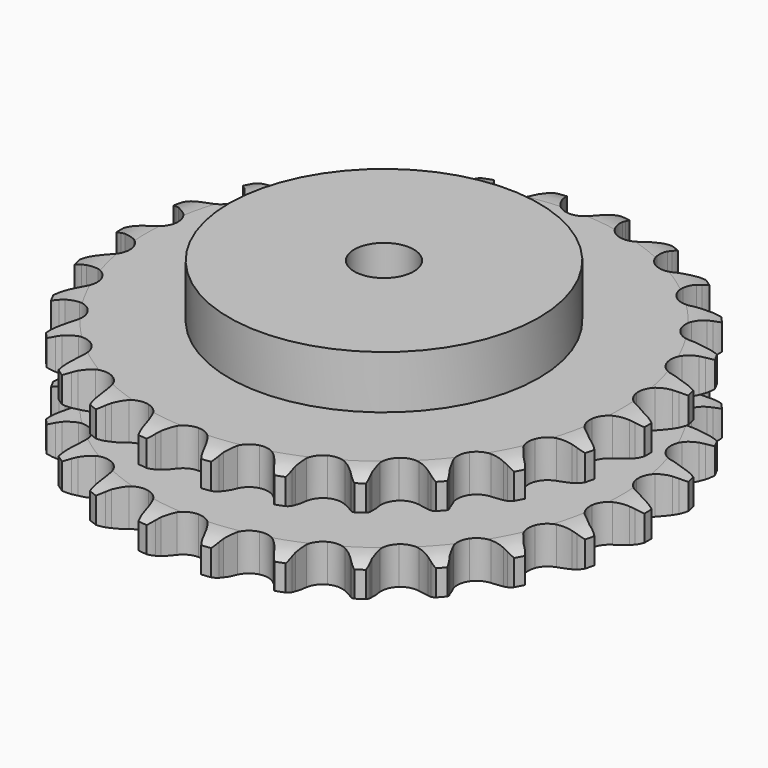
from build123d import *

# Parameters (mm, degrees)
PAD_DEPTH         = 47.7
SKETCH001_R       = 65
PAD001_DEPTH      = 70
SKETCH002_R       = 12.5
POCKET_DEPTH      = 0.0010001
POCKET_DEPTH_BACK = 70.001


with BuildPart() as part:
    # Sprocket → Pad (new body)
    with BuildSketch(Plane.XY):
        with BuildLine():
            ThreePointArc((-13.6763768577, 112.6350969959), (-11.4916020073, 110.272344241), (-9.9530909327, 107.4458932152))
            Line((-9.9530909327, 107.4458932152), (-9.1803590569, 105.4803307416))
            ThreePointArc((-9.1803590569, 105.4803307416), (-7.9511876741, 102.8943903602), (-6.3772949081, 100.5025685639))
            ThreePointArc((-6.3772949081, 100.5025685639), (-3.5582451158, 98.1771336577), (0, 97.3443185941))
            ThreePointArc((0, 97.3443185941), (3.5582451158, 98.1771336577), (6.3772949081, 100.5025685639))
            ThreePointArc((6.3772949081, 100.5025685639), (7.9511876741, 102.8943903602), (9.1803590569, 105.4803307416))
            Line((9.1803590569, 105.4803307416), (9.9530909327, 107.4458932152))
            ThreePointArc((9.9530909327, 107.4458932152), (11.4916020073, 110.272344241), (13.6763768577, 112.6350969959))
            ThreePointArc((13.6763768577, 112.6350969959), (15.2322223765, 109.8181506973), (16.0496131106, 106.7056414016))
            Line((16.0496131106, 106.7056414016), (16.3295009133, 104.6122677591))
            ThreePointArc((16.3295009133, 104.6122677591), (16.9040987695, 101.8073101394), (17.8598566502, 99.1083331447))
            ThreePointArc((17.8598566502, 99.1083331447), (20.0404769796, 96.1758283769), (23.296020269, 94.5156696119))
            ThreePointArc((23.296020269, 94.5156696119), (26.9501749387, 94.4727407897), (30.2438212668, 96.0559600102))
            Line((30.2438212668, 96.0559600102), (34.1566899281, 100.2182603068))
            ThreePointArc((34.1566899281, 100.2182603068), (34.7450514287, 101.0955819635), (35.3773575089, 101.9417802651))
            ThreePointArc((35.3773575089, 101.9417802651), (37.5475762526, 104.3179099611), (40.2343092616, 106.0891545704))
            ThreePointArc((40.2343092616, 106.0891545704), (41.0708053626, 102.9817254078), (41.1195719779, 99.764045569))
            Line((41.1195719779, 99.764045569), (40.8903496458, 97.6645200245))
            ThreePointArc((40.8903496458, 97.6645200245), (40.7769804366, 94.8035591078), (41.0590582579, 91.9542816473))
            ThreePointArc((41.0590582579, 91.9542816473), (42.474519397, 88.5851335357), (45.2381605175, 86.1941134622))
            ThreePointArc((45.2381605175, 86.1941134622), (48.7758585541, 85.2779356215), (52.3526866653, 86.0269282098))
            Line((52.3526866653, 86.0269282098), (57.1479581351, 89.1318688616))
            ThreePointArc((57.1479581351, 89.1318688616), (57.9291797349, 89.8428930221), (58.7456206582, 90.5131815893))
            ThreePointArc((58.7456206582, 90.5131815893), (61.4214218461, 92.3008979344), (64.4539698571, 93.3776960996))
            ThreePointArc((64.4539698571, 93.3776960996), (64.5225024274, 90.1603765609), (63.7998107853, 87.0245260354))
            Line((63.7998107853, 87.0245260354), (63.0747998873, 85.0408653822))
            ThreePointArc((63.0747998873, 85.0408653822), (62.280052219, 82.2901698178), (61.8720566432, 79.4561815407))
            ThreePointArc((61.8720566432, 79.4561815407), (62.4400971358, 75.8461927273), (64.5512233108, 72.8632687411))
            ThreePointArc((64.5512233108, 72.8632687411), (67.7668665634, 71.1270868076), (71.4190042091, 70.9983240371))
            Line((71.4190042091, 70.9983240371), (76.8179947397, 72.8654571793))
            ThreePointArc((76.8179947397, 72.8654571793), (77.7466746789, 73.3688617038), (78.6998018666, 73.8242858015))
            ThreePointArc((78.6998018666, 73.8242858015), (81.7256776597, 74.9196932199), (84.9278000051, 75.2394653457))
            ThreePointArc((84.9278000051, 75.2394653457), (84.2243861808, 72.099234348), (82.7722364928, 69.22745737))
            Line((82.7722364928, 69.22745737), (81.5935720269, 67.4749447548))
            ThreePointArc((81.5935720269, 67.4749447548), (80.1636337451, 64.9943749705), (79.0892759922, 62.3403769745))
            ThreePointArc((79.0892759922, 62.3403769745), (78.7768833895, 58.6993468873), (80.1128036394, 55.2978756879))
            ThreePointArc((80.1128036394, 55.2978756879), (82.8195106105, 52.8425902449), (86.3347088258, 51.8435553397))
            Line((86.3347088258, 51.8435553397), (92.023648712, 52.3643699809))
            ThreePointArc((92.023648712, 52.3643699809), (93.0458154882, 52.6308988282), (94.0802366525, 52.8449908633))
            ThreePointArc((94.0802366525, 52.8449908633), (97.2803341484, 53.1844282574), (100.4659351168, 52.7285903502))
            ThreePointArc((100.4659351168, 52.7285903502), (99.0314547526, 49.8479467048), (96.9342406802, 47.4071405137))
            Line((96.9342406802, 47.4071405137), (95.3704223408, 45.9876255998))
            ThreePointArc((95.3704223408, 45.9876255998), (93.388396261, 43.9213432949), (91.7101140984, 41.6015762965))
            ThreePointArc((91.7101140984, 41.6015762965), (90.5354435229, 38.1411083696), (91.0185190186, 34.5187710993))
            ThreePointArc((91.0185190186, 34.5187710993), (93.0589857376, 31.4870744121), (96.2329539794, 29.6758276497))
            Line((96.2329539794, 29.6758276497), (101.8812227136, 28.8200559359))
            ThreePointArc((101.8812227136, 28.8200559359), (102.9374717091, 28.8342194183), (103.993070052, 28.7945371398))
            ThreePointArc((103.993070052, 28.7945371398), (107.181411216, 28.3582776422), (110.1653552583, 27.1533213442))
            ThreePointArc((110.1653552583, 27.1533213442), (108.0831751388, 24.699677589), (105.4627791409, 22.8316929688))
            Line((105.4627791409, 22.8316929688), (103.6046903657, 21.8276728031))
            ThreePointArc((103.6046903657, 21.8276728031), (101.1857646392, 20.2957627946), (99.0010937258, 18.4450432198))
            ThreePointArc((99.0010937258, 18.4450432198), (97.0324127617, 15.3662472708), (96.6345689114, 11.733561005))
            ThreePointArc((96.6345689114, 11.733561005), (97.8902108693, 8.3016442654), (100.5384896403, 5.7834487239))
            Line((100.5384896403, 5.7834487239), (105.8178303743, 3.6008249966))
            ThreePointArc((105.8178303743, 3.6008249966), (106.8467762368, 3.3617999839), (107.8622042195, 3.0706495817))
            ThreePointArc((107.8622042195, 3.0706495817), (110.8534942524, 1.8840470086), (113.462365387, 0))
            ThreePointArc((113.462365387, 0), (110.8534942524, -1.8840470086), (107.8622042195, -3.0706495817))
            Line((107.8622042195, -3.0706495817), (105.8178303743, -3.6008249966))
            ThreePointArc((105.8178303743, -3.6008249966), (103.1025841718, -4.5093336672), (100.5384896403, -5.7834487239))
            ThreePointArc((100.5384896403, -5.7834487239), (97.8902108693, -8.3016442654), (96.6345689114, -11.733561005))
            ThreePointArc((96.6345689114, -11.733561005), (97.0324127617, -15.3662472708), (99.0010937258, -18.4450432198))
            Line((99.0010937258, -18.4450432198), (103.6046903657, -21.8276728031))
            ThreePointArc((103.6046903657, -21.8276728031), (104.5465345018, -22.3059950459), (105.4627791409, -22.8316929688))
            ThreePointArc((105.4627791409, -22.8316929688), (108.0831751388, -24.699677589), (110.1653552583, -27.1533213442))
            ThreePointArc((110.1653552583, -27.1533213442), (107.181411216, -28.3582776422), (103.993070052, -28.7945371398))
            Line((103.993070052, -28.7945371398), (101.8812227136, -28.8200559359))
            ThreePointArc((101.8812227136, -28.8200559359), (99.0274562751, -29.0523640471), (96.2329539794, -29.6758276497))
            ThreePointArc((96.2329539794, -29.6758276497), (93.0589857376, -31.4870744121), (91.0185190186, -34.5187710993))
            ThreePointArc((91.0185190186, -34.5187710993), (90.5354435229, -38.1411083696), (91.7101140984, -41.6015762965))
            Line((91.7101140984, -41.6015762965), (95.3704223408, -45.9876255998))
            ThreePointArc((95.3704223408, -45.9876255998), (96.1704281928, -46.6774467226), (96.9342406802, -47.4071405137))
            ThreePointArc((96.9342406802, -47.4071405137), (99.0314547526, -49.8479467048), (100.4659351168, -52.7285903502))
            ThreePointArc((100.4659351168, -52.7285903502), (97.2803341484, -53.1844282574), (94.0802366525, -52.8449908633))
            Line((94.0802366525, -52.8449908633), (92.023648712, -52.3643699809))
            ThreePointArc((92.023648712, -52.3643699809), (89.1972125697, -51.9069766296), (86.3347088258, -51.8435553397))
            ThreePointArc((86.3347088258, -51.8435553397), (82.8195106105, -52.8425902449), (80.1128036394, -55.2978756879))
            ThreePointArc((80.1128036394, -55.2978756879), (78.7768833895, -58.6993468873), (79.0892759922, -62.3403769745))
            Line((79.0892759922, -62.3403769745), (81.5935720269, -67.4749447548))
            ThreePointArc((81.5935720269, -67.4749447548), (82.2052461625, -68.3361748614), (82.7722364928, -69.22745737))
            ThreePointArc((82.7722364928, -69.22745737), (84.2243861808, -72.099234348), (84.9278000051, -75.2394653457))
            ThreePointArc((84.9278000051, -75.2394653457), (81.7256776597, -74.9196932199), (78.6998018666, -73.8242858015))
            Line((78.6998018666, -73.8242858015), (76.8179947397, -72.8654571793))
            ThreePointArc((76.8179947397, -72.8654571793), (74.1831510885, -71.7449444045), (71.4190042091, -70.9983240371))
            ThreePointArc((71.4190042091, -70.9983240371), (67.7668665634, -71.1270868076), (64.5512233108, -72.8632687411))
            ThreePointArc((64.5512233108, -72.8632687411), (62.4400971358, -75.8461927273), (61.8720566432, -79.4561815407))
            Line((61.8720566432, -79.4561815407), (63.0747998873, -85.0408653822))
            ThreePointArc((63.0747998873, -85.0408653822), (63.4625940291, -86.0234529092), (63.7998107853, -87.0245260354))
            ThreePointArc((63.7998107853, -87.0245260354), (64.5225024274, -90.1603765609), (64.4539698571, -93.3776960996))
            ThreePointArc((64.4539698571, -93.3776960996), (61.4214218461, -92.3008979344), (58.7456206582, -90.5131815893))
            Line((58.7456206582, -90.5131815893), (57.1479581351, -89.1318688616))
            ThreePointArc((57.1479581351, -89.1318688616), (54.8578345109, -87.413356793), (52.3526866653, -86.0269282098))
            ThreePointArc((52.3526866653, -86.0269282098), (48.7758585541, -85.2779356215), (45.2381605175, -86.1941134622))
            ThreePointArc((45.2381605175, -86.1941134622), (42.474519397, -88.5851335357), (41.0590582579, -91.9542816473))
            Line((41.0590582579, -91.9542816473), (40.8903496458, -97.6645200245))
            ThreePointArc((40.8903496458, -97.6645200245), (41.0317266079, -98.7113605564), (41.1195719779, -99.764045569))
            ThreePointArc((41.1195719779, -99.764045569), (41.0708053626, -102.9817254078), (40.2343092616, -106.0891545704))
            ThreePointArc((40.2343092616, -106.0891545704), (37.5475762526, -104.3179099611), (35.3773575089, -101.9417802651))
            Line((35.3773575089, -101.9417802651), (34.1566899281, -100.2182603068))
            ThreePointArc((34.1566899281, -100.2182603068), (32.3443799915, -98.0016226192), (30.2438212668, -96.0559600102))
            ThreePointArc((30.2438212668, -96.0559600102), (26.9501749387, -94.4727407897), (23.296020269, -94.5156696119))
            ThreePointArc((23.296020269, -94.5156696119), (20.0404769796, -96.1758283769), (17.8598566502, -99.1083331447))
            Line((17.8598566502, -99.1083331447), (16.3295009133, -104.6122677591))
            ThreePointArc((16.3295009133, -104.6122677591), (16.2162443805, -105.6625227293), (16.0496131106, -106.7056414016))
            ThreePointArc((16.0496131106, -106.7056414016), (15.2322223765, -109.8181506973), (13.6763768577, -112.6350969959))
            ThreePointArc((13.6763768577, -112.6350969959), (11.4916020073, -110.272344241), (9.9530909327, -107.4458932152))
            Line((9.9530909327, -107.4458932152), (9.1803590569, -105.4803307416))
            ThreePointArc((9.1803590569, -105.4803307416), (7.9511876741, -102.8943903602), (6.3772949081, -100.5025685639))
            ThreePointArc((6.3772949081, -100.5025685639), (3.5582451158, -98.1771336577), (0, -97.3443185941))
            ThreePointArc((0, -97.3443185941), (-3.5582451158, -98.1771336577), (-6.3772949081, -100.5025685639))
            Line((-6.3772949081, -100.5025685639), (-9.1803590569, -105.4803307416))
            ThreePointArc((-9.1803590569, -105.4803307416), (-9.5416670266, -106.4729631488), (-9.9530909327, -107.4458932152))
            ThreePointArc((-9.9530909327, -107.4458932152), (-11.4916020073, -110.272344241), (-13.6763768577, -112.6350969959))
            ThreePointArc((-13.6763768577, -112.6350969959), (-15.2322223765, -109.8181506973), (-16.0496131106, -106.7056414016))
            Line((-16.0496131106, -106.7056414016), (-16.3295009133, -104.6122677591))
            ThreePointArc((-16.3295009133, -104.6122677591), (-16.9040987695, -101.8073101394), (-17.8598566502, -99.1083331447))
            ThreePointArc((-17.8598566502, -99.1083331447), (-20.0404769796, -96.1758283769), (-23.296020269, -94.5156696119))
            ThreePointArc((-23.296020269, -94.5156696119), (-26.9501749387, -94.4727407897), (-30.2438212668, -96.0559600102))
            Line((-30.2438212668, -96.0559600102), (-34.1566899281, -100.2182603068))
            ThreePointArc((-34.1566899281, -100.2182603068), (-34.7450514287, -101.0955819635), (-35.3773575089, -101.9417802651))
            ThreePointArc((-35.3773575089, -101.9417802651), (-37.5475762526, -104.3179099611), (-40.2343092616, -106.0891545704))
            ThreePointArc((-40.2343092616, -106.0891545704), (-41.0708053626, -102.9817254078), (-41.1195719779, -99.764045569))
            Line((-41.1195719779, -99.764045569), (-40.8903496458, -97.6645200245))
            ThreePointArc((-40.8903496458, -97.6645200245), (-40.7769804366, -94.8035591078), (-41.0590582579, -91.9542816473))
            ThreePointArc((-41.0590582579, -91.9542816473), (-42.474519397, -88.5851335357), (-45.2381605175, -86.1941134622))
            ThreePointArc((-45.2381605175, -86.1941134622), (-48.7758585541, -85.2779356215), (-52.3526866653, -86.0269282098))
            Line((-52.3526866653, -86.0269282098), (-57.1479581351, -89.1318688616))
            ThreePointArc((-57.1479581351, -89.1318688616), (-57.9291797349, -89.8428930221), (-58.7456206582, -90.5131815893))
            ThreePointArc((-58.7456206582, -90.5131815893), (-61.4214218461, -92.3008979344), (-64.4539698571, -93.3776960996))
            ThreePointArc((-64.4539698571, -93.3776960996), (-64.5225024274, -90.1603765609), (-63.7998107853, -87.0245260354))
            Line((-63.7998107853, -87.0245260354), (-63.0747998873, -85.0408653822))
            ThreePointArc((-63.0747998873, -85.0408653822), (-62.280052219, -82.2901698178), (-61.8720566432, -79.4561815407))
            ThreePointArc((-61.8720566432, -79.4561815407), (-62.4400971358, -75.8461927273), (-64.5512233108, -72.8632687411))
            ThreePointArc((-64.5512233108, -72.8632687411), (-67.7668665634, -71.1270868076), (-71.4190042091, -70.9983240371))
            Line((-71.4190042091, -70.9983240371), (-76.8179947397, -72.8654571793))
            ThreePointArc((-76.8179947397, -72.8654571793), (-77.7466746789, -73.3688617038), (-78.6998018666, -73.8242858015))
            ThreePointArc((-78.6998018666, -73.8242858015), (-81.7256776597, -74.9196932199), (-84.9278000051, -75.2394653457))
            ThreePointArc((-84.9278000051, -75.2394653457), (-84.2243861808, -72.099234348), (-82.7722364928, -69.22745737))
            Line((-82.7722364928, -69.22745737), (-81.5935720269, -67.4749447548))
            ThreePointArc((-81.5935720269, -67.4749447548), (-80.1636337451, -64.9943749705), (-79.0892759922, -62.3403769745))
            ThreePointArc((-79.0892759922, -62.3403769745), (-78.7768833895, -58.6993468873), (-80.1128036394, -55.2978756879))
            ThreePointArc((-80.1128036394, -55.2978756879), (-82.8195106105, -52.8425902449), (-86.3347088258, -51.8435553397))
            Line((-86.3347088258, -51.8435553397), (-92.023648712, -52.3643699809))
            ThreePointArc((-92.023648712, -52.3643699809), (-93.0458154882, -52.6308988282), (-94.0802366525, -52.8449908633))
            ThreePointArc((-94.0802366525, -52.8449908633), (-97.2803341484, -53.1844282574), (-100.4659351168, -52.7285903502))
            ThreePointArc((-100.4659351168, -52.7285903502), (-99.0314547526, -49.8479467048), (-96.9342406802, -47.4071405137))
            Line((-96.9342406802, -47.4071405137), (-95.3704223408, -45.9876255998))
            ThreePointArc((-95.3704223408, -45.9876255998), (-93.388396261, -43.9213432949), (-91.7101140984, -41.6015762965))
            ThreePointArc((-91.7101140984, -41.6015762965), (-90.5354435229, -38.1411083696), (-91.0185190186, -34.5187710993))
            ThreePointArc((-91.0185190186, -34.5187710993), (-93.0589857376, -31.4870744121), (-96.2329539794, -29.6758276497))
            Line((-96.2329539794, -29.6758276497), (-101.8812227136, -28.8200559359))
            ThreePointArc((-101.8812227136, -28.8200559359), (-102.9374717091, -28.8342194183), (-103.993070052, -28.7945371398))
            ThreePointArc((-103.993070052, -28.7945371398), (-107.181411216, -28.3582776422), (-110.1653552583, -27.1533213442))
            ThreePointArc((-110.1653552583, -27.1533213442), (-108.0831751388, -24.699677589), (-105.4627791409, -22.8316929688))
            Line((-105.4627791409, -22.8316929688), (-103.6046903657, -21.8276728031))
            ThreePointArc((-103.6046903657, -21.8276728031), (-101.1857646392, -20.2957627946), (-99.0010937258, -18.4450432198))
            ThreePointArc((-99.0010937258, -18.4450432198), (-97.0324127617, -15.3662472708), (-96.6345689114, -11.733561005))
            ThreePointArc((-96.6345689114, -11.733561005), (-97.8902108693, -8.3016442654), (-100.5384896403, -5.7834487239))
            Line((-100.5384896403, -5.7834487239), (-105.8178303743, -3.6008249966))
            ThreePointArc((-105.8178303743, -3.6008249966), (-106.8467762368, -3.3617999839), (-107.8622042195, -3.0706495817))
            ThreePointArc((-107.8622042195, -3.0706495817), (-110.8534942524, -1.8840470086), (-113.462365387, 0))
            ThreePointArc((-113.462365387, 0), (-110.8534942524, 1.8840470086), (-107.8622042195, 3.0706495817))
            Line((-107.8622042195, 3.0706495817), (-105.8178303743, 3.6008249966))
            ThreePointArc((-105.8178303743, 3.6008249966), (-103.1025841718, 4.5093336672), (-100.5384896403, 5.7834487239))
            ThreePointArc((-100.5384896403, 5.7834487239), (-97.8902108693, 8.3016442654), (-96.6345689114, 11.733561005))
            ThreePointArc((-96.6345689114, 11.733561005), (-97.0324127617, 15.3662472708), (-99.0010937258, 18.4450432198))
            Line((-99.0010937258, 18.4450432198), (-103.6046903657, 21.8276728031))
            ThreePointArc((-103.6046903657, 21.8276728031), (-104.5465345018, 22.3059950459), (-105.4627791409, 22.8316929688))
            ThreePointArc((-105.4627791409, 22.8316929688), (-108.0831751388, 24.699677589), (-110.1653552583, 27.1533213442))
            ThreePointArc((-110.1653552583, 27.1533213442), (-107.181411216, 28.3582776422), (-103.993070052, 28.7945371398))
            Line((-103.993070052, 28.7945371398), (-101.8812227136, 28.8200559359))
            ThreePointArc((-101.8812227136, 28.8200559359), (-99.0274562751, 29.0523640471), (-96.2329539794, 29.6758276497))
            ThreePointArc((-96.2329539794, 29.6758276497), (-93.0589857376, 31.4870744121), (-91.0185190186, 34.5187710993))
            ThreePointArc((-91.0185190186, 34.5187710993), (-90.5354435229, 38.1411083696), (-91.7101140984, 41.6015762965))
            Line((-91.7101140984, 41.6015762965), (-95.3704223408, 45.9876255998))
            ThreePointArc((-95.3704223408, 45.9876255998), (-96.1704281928, 46.6774467226), (-96.9342406802, 47.4071405137))
            ThreePointArc((-96.9342406802, 47.4071405137), (-99.0314547526, 49.8479467048), (-100.4659351168, 52.7285903502))
            ThreePointArc((-100.4659351168, 52.7285903502), (-97.2803341484, 53.1844282574), (-94.0802366525, 52.8449908633))
            Line((-94.0802366525, 52.8449908633), (-92.023648712, 52.3643699809))
            ThreePointArc((-92.023648712, 52.3643699809), (-89.1972125697, 51.9069766296), (-86.3347088258, 51.8435553397))
            ThreePointArc((-86.3347088258, 51.8435553397), (-82.8195106105, 52.8425902449), (-80.1128036394, 55.2978756879))
            ThreePointArc((-80.1128036394, 55.2978756879), (-78.7768833895, 58.6993468873), (-79.0892759922, 62.3403769745))
            Line((-79.0892759922, 62.3403769745), (-81.5935720269, 67.4749447548))
            ThreePointArc((-81.5935720269, 67.4749447548), (-82.2052461625, 68.3361748614), (-82.7722364928, 69.22745737))
            ThreePointArc((-82.7722364928, 69.22745737), (-84.2243861808, 72.099234348), (-84.9278000051, 75.2394653457))
            ThreePointArc((-84.9278000051, 75.2394653457), (-81.7256776597, 74.9196932199), (-78.6998018666, 73.8242858015))
            Line((-78.6998018666, 73.8242858015), (-76.8179947397, 72.8654571793))
            ThreePointArc((-76.8179947397, 72.8654571793), (-74.1831510885, 71.7449444045), (-71.4190042091, 70.9983240371))
            ThreePointArc((-71.4190042091, 70.9983240371), (-67.7668665634, 71.1270868076), (-64.5512233108, 72.8632687411))
            ThreePointArc((-64.5512233108, 72.8632687411), (-62.4400971358, 75.8461927273), (-61.8720566432, 79.4561815407))
            Line((-61.8720566432, 79.4561815407), (-63.0747998873, 85.0408653822))
            ThreePointArc((-63.0747998873, 85.0408653822), (-63.4625940291, 86.0234529092), (-63.7998107853, 87.0245260354))
            ThreePointArc((-63.7998107853, 87.0245260354), (-64.5225024274, 90.1603765609), (-64.4539698571, 93.3776960996))
            ThreePointArc((-64.4539698571, 93.3776960996), (-61.4214218461, 92.3008979344), (-58.7456206582, 90.5131815893))
            Line((-58.7456206582, 90.5131815893), (-57.1479581351, 89.1318688616))
            ThreePointArc((-57.1479581351, 89.1318688616), (-54.8578345109, 87.413356793), (-52.3526866653, 86.0269282098))
            ThreePointArc((-52.3526866653, 86.0269282098), (-48.7758585541, 85.2779356215), (-45.2381605175, 86.1941134622))
            ThreePointArc((-45.2381605175, 86.1941134622), (-42.474519397, 88.5851335357), (-41.0590582579, 91.9542816473))
            Line((-41.0590582579, 91.9542816473), (-40.8903496458, 97.6645200245))
            ThreePointArc((-40.8903496458, 97.6645200245), (-41.0317266079, 98.7113605564), (-41.1195719779, 99.764045569))
            ThreePointArc((-41.1195719779, 99.764045569), (-41.0708053626, 102.9817254078), (-40.2343092616, 106.0891545704))
            ThreePointArc((-40.2343092616, 106.0891545704), (-37.5475762526, 104.3179099611), (-35.3773575089, 101.9417802651))
            Line((-35.3773575089, 101.9417802651), (-34.1566899281, 100.2182603068))
            ThreePointArc((-34.1566899281, 100.2182603068), (-32.3443799915, 98.0016226192), (-30.2438212668, 96.0559600102))
            ThreePointArc((-30.2438212668, 96.0559600102), (-26.9501749387, 94.4727407897), (-23.296020269, 94.5156696119))
            ThreePointArc((-23.296020269, 94.5156696119), (-20.0404769796, 96.1758283769), (-17.8598566502, 99.1083331447))
            Line((-17.8598566502, 99.1083331447), (-16.3295009133, 104.6122677591))
            ThreePointArc((-16.3295009133, 104.6122677591), (-16.2162443805, 105.6625227293), (-16.0496131106, 106.7056414016))
            ThreePointArc((-16.0496131106, 106.7056414016), (-15.2322223765, 109.8181506973), (-13.6763768577, 112.6350969959))
        make_face()
    extrude(amount=PAD_DEPTH)

    # Sketch → Groove (revolve, cut)
    with BuildSketch(Plane.XZ):
        with BuildLine():
            ThreePointArc((99.6757022694, 0), (105.3765793949, 0.6326982121), (110.8, 2.5))
            Line((110.8, 2.5), (110.8, 13.3))
            ThreePointArc((110.8, 13.3), (105.3765793949, 15.1673017879), (99.6757022694, 15.8))
            Line((65, 15.8), (99.6757022694, 15.8))
            Line((65, 31.9), (65, 15.8))
            Line((99.6757022694, 31.9), (65, 31.9))
            ThreePointArc((99.6757022694, 31.9), (105.3765793949, 32.5326982121), (110.8, 34.4))
            Line((110.8, 34.4), (110.8, 45.2))
            ThreePointArc((110.8, 45.2), (105.3765793949, 47.0673017879), (99.6757022694, 47.7))
            Line((99.6757022694, 47.7), (120.8, 47.7))
            Line((120.8, 47.7), (120.8, 0))
            Line((99.6757022694, 0), (120.8, 0))
        make_face()
    revolve(axis=Axis((0, 0, 0), (0, 0, 1)), mode=Mode.SUBTRACT)

    # Sketch001 → Pad001 (join)
    with BuildSketch(Plane.XY):
        Circle(SKETCH001_R)
    extrude(amount=PAD001_DEPTH)

    # Sketch002 → Pocket (cut, two sides)
    with BuildSketch(Plane.XY) as pocket_sk:
        Circle(SKETCH002_R)
    extrude(amount=-POCKET_DEPTH, mode=Mode.SUBTRACT)
    extrude(pocket_sk.sketch, amount=POCKET_DEPTH_BACK, mode=Mode.SUBTRACT)


solid = part.part
